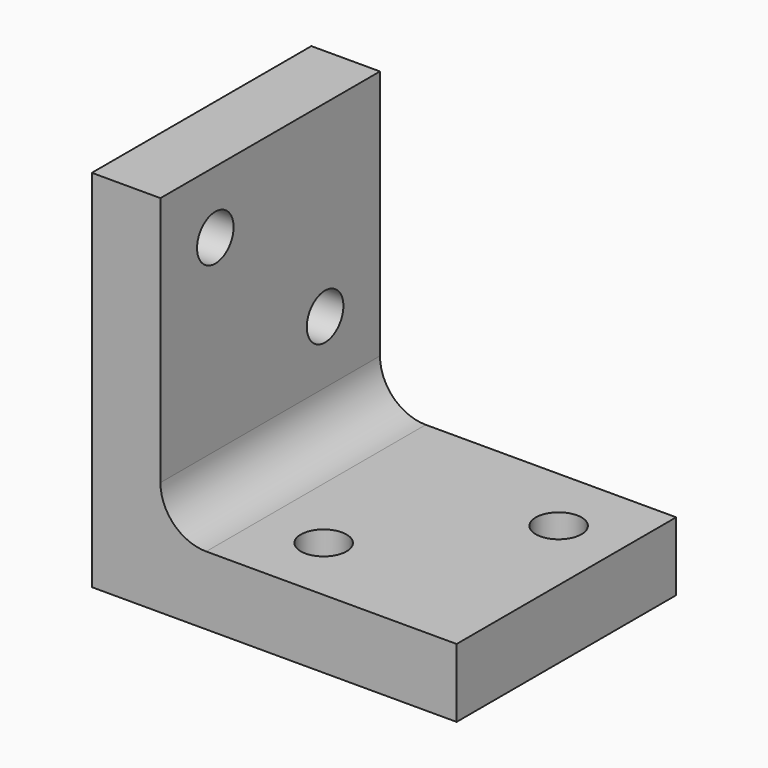
from build123d import *

# Parameters (mm, degrees)
F0_W     = 50.6476
F0_H     = 50.6476
F1_DEPTH = 38.1
F3_DEPTH = 38.101
F4_R     = 3.175
F5_DEPTH = 9.526
F6_R     = 3.175
F7_DEPTH = 9.526


with BuildPart() as f1:
    # F0 (on Front) → F1 (new body)
    with BuildSketch(Plane.XZ):
        with Locations((25.3238, 25.3238)):
            Rectangle(F0_W, F0_H)
    extrude(amount=F1_DEPTH)

    # F2 (on face) → F3 (cut, through all)
    with BuildSketch(Plane.XZ.offset(38.1)):
        with BuildLine():
            Line((50.6476, 9.525), (50.6476, 50.6476))
            Line((50.6476, 50.6476), (9.525, 50.6476))
            Line((9.525, 50.6476), (9.525, 15.875))
            ThreePointArc((9.525, 15.875), (11.384872, 11.384872), (15.875, 9.525))
            Line((15.875, 9.525), (50.6476, 9.525))
        make_face()
    extrude(amount=-F3_DEPTH, mode=Mode.SUBTRACT)

    # F4 (on face) → F5 (cut, through all)
    with BuildSketch(Plane.XY.offset(9.525)):
        with Locations((24.56815, -28.575)):
            Circle(F4_R)
        with Locations((41.95445, -9.525)):
            Circle(F4_R)
    extrude(amount=-F5_DEPTH, mode=Mode.SUBTRACT)

    # F6 (on face) → F7 (cut, through all)
    with BuildSketch(Plane.YZ.offset(9.525)):
        with Locations((-28.575, 41.95445)):
            Circle(F6_R)
        with Locations((-9.525, 24.56815)):
            Circle(F6_R)
    extrude(amount=-F7_DEPTH, mode=Mode.SUBTRACT)


solid = f1.part
